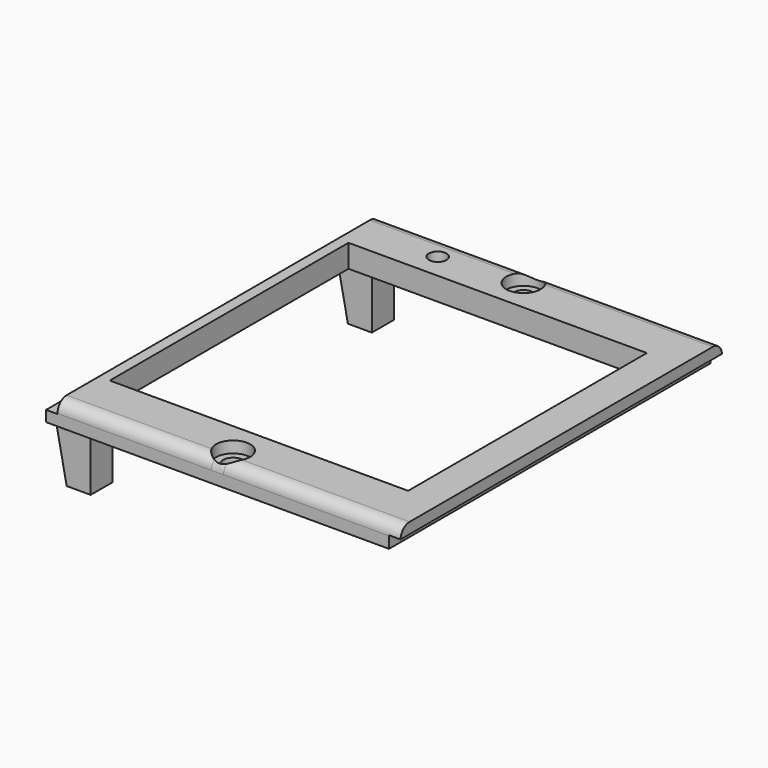
from build123d import *

# Parameters (mm, degrees)
SKETCH077_W          = 62
SKETCH077_H          = 70.3
SKETCH077_R          = 1.75
SKETCH077_R_2        = 1.55
SKETCH077_W_2        = 52.2
SKETCH077_H_2        = 52.2
PAD021_DEPTH         = 4
FILLET009_R          = 2
SKETCH078_W          = 2
SKETCH078_H          = 2.1
POCKET050_DEPTH      = 35.151
POCKET050_DEPTH_BACK = 35.151
SKETCH079_R          = 3
POCKET028_DEPTH      = 2.001
SKETCH081_W          = 4.202
SKETCH081_H          = 4.8
PAD023_DEPTH         = 10
CHAMFER003_SIZE2     = 9.99
CHAMFER003_SIZE      = 1.99


with BuildPart() as part:
    # Sketch077 → Pad021 (new body)
    with BuildSketch(Plane.XY):
        with Locations((1, 0)):
            Rectangle(SKETCH077_W, SKETCH077_H)
        with Locations((0, 31.75)):
            Circle(SKETCH077_R, mode=Mode.SUBTRACT)
        with Locations((0, -31.75)):
            Circle(SKETCH077_R, mode=Mode.SUBTRACT)
        with Locations((-14, 30.5)):
            Circle(SKETCH077_R_2, mode=Mode.SUBTRACT)
        Rectangle(SKETCH077_W_2, SKETCH077_H_2, mode=Mode.SUBTRACT)
    extrude(amount=PAD021_DEPTH)

    # Fillet009
    fillet009_edges = [part.edges().sort_by_distance(p)[0] for p in [
        (1, 35.15, 4),
        (1, -35.15, 4),
    ]]
    fillet(fillet009_edges, radius=FILLET009_R)

    # Sketch078 → Pocket050 (cut, two sides)
    with BuildSketch(Plane.XZ) as pocket050_sk:
        with Locations((-29, 2.95)):
            Rectangle(SKETCH078_W, SKETCH078_H)
        with Locations((31, 1.05)):
            Rectangle(SKETCH078_W, SKETCH078_H)
    extrude(amount=-POCKET050_DEPTH, mode=Mode.SUBTRACT)
    extrude(pocket050_sk.sketch, amount=POCKET050_DEPTH_BACK, mode=Mode.SUBTRACT)

    # Sketch079 → Pocket028 (cut, through all)
    with BuildSketch(Plane.XY.offset(2)):
        with Locations((0, -31.75)):
            Circle(SKETCH079_R)
        with Locations((0, 31.75)):
            Circle(SKETCH079_R)
    extrude(amount=POCKET028_DEPTH, mode=Mode.SUBTRACT)

    # Sketch081 → Pad023 (join)
    with BuildSketch(Plane.XY):
        with Locations((-25.899, 30.75)):
            Rectangle(SKETCH081_W, SKETCH081_H)
        with Locations((-25.899, -30.75)):
            Rectangle(SKETCH081_W, SKETCH081_H)
    extrude(amount=-PAD023_DEPTH)

    # Chamfer003
    chamfer003_edges = [part.edges().sort_by_distance(p)[0] for p in [
        (-28, 30.75, 0),
        (-28, -30.75, 0),
    ]]
    chamfer003_side = part.faces().sort_by_distance((-29.075766, 0, 0))[0]
    chamfer(chamfer003_edges, length=CHAMFER003_SIZE, length2=CHAMFER003_SIZE2, reference=chamfer003_side)


with BuildPart() as part_1:
    # Body055 placement: moved
    add(part.part.moved(Location((0, 0, 46))))


solid = part_1.part
